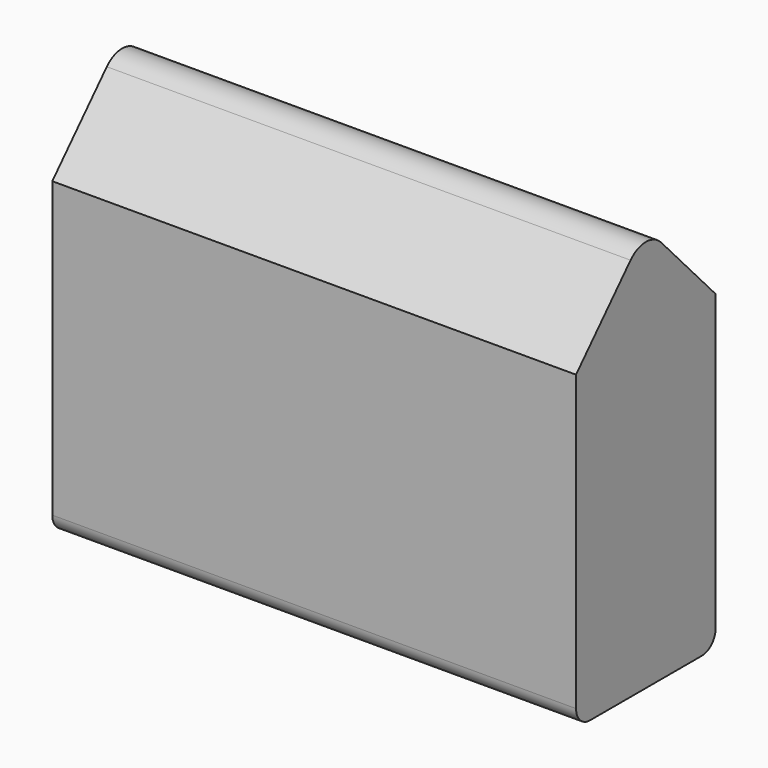
from build123d import *

# Parameters (mm, degrees)
F1_DEPTH = 60
F2_R     = 3.375
F3_DEPTH = 15
F4_R     = 2


with BuildPart() as f1:
    # F0 (on Right) → F1 (new body)
    with BuildSketch(Plane.YZ):
        with BuildLine():
            Line((0, 0), (0, -35.67515))
            Line((0, -35.67515), (20, -35.67515))
            Line((20, -35.67515), (20, 0))
            Line((20, 0), (12.194061, 8.370845))
            ThreePointArc((12.194061, 8.370845), (10, 9.32485), (7.805939, 8.370845))
            Line((7.805939, 8.370845), (0, 0))
        make_face()
    extrude(amount=F1_DEPTH)

    # F2 (on face) → F3 (cut)
    with BuildSketch(Plane(origin=(0, 0, -35.67515), x_dir=(1, 0, 0), z_dir=(0, 0, -1))):
        with Locations((8.993604, -10)):
            Circle(F2_R)
        with Locations((51.006395, -10)):
            Circle(F2_R)
    extrude(amount=-F3_DEPTH, mode=Mode.SUBTRACT)

    # F4
    f4_edges = [f1.edges().sort_by_distance(p)[0] for p in [
        (30, 20, -35.67515),
        (30, 0, -35.67515),
    ]]
    fillet(f4_edges, radius=F4_R)


solid = f1.part
